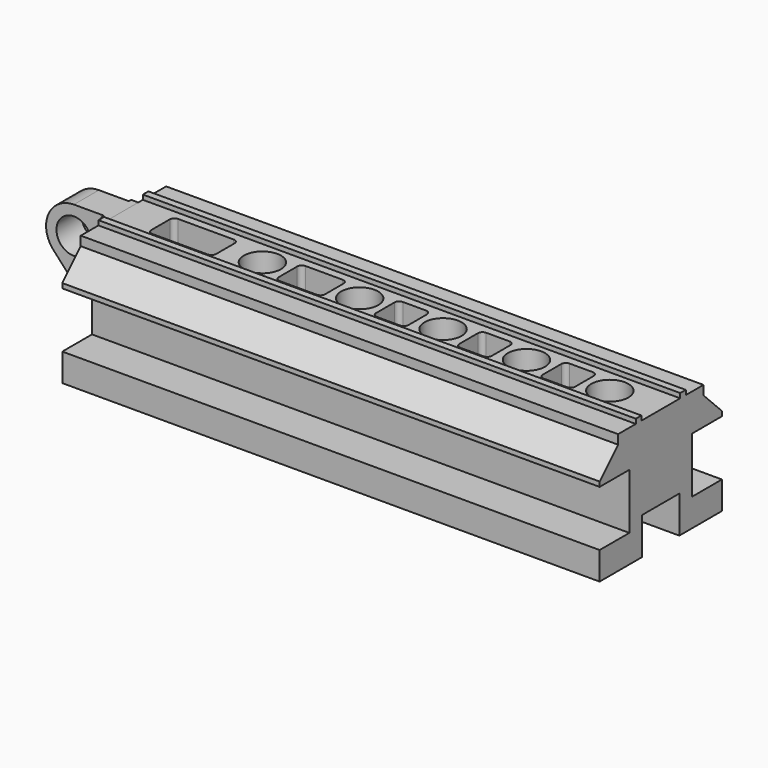
from build123d import *

# Parameters (mm, degrees)
F1_DEPTH  = 368.3
F2_W      = 63.5
F2_H      = 101.6
F3_DEPTH  = 609.6
F5_D      = 50.8
F7_DEPTH  = 165.101
F9_DEPTH  = 736.601
F10_W     = 50.8
F10_H     = 101.6
F11_DEPTH = 88.9
F12_W     = 79.248
F12_H     = 3.9624
F13_DEPTH = 165.101
F14_R     = 23.876
F15_DEPTH = 126.2136
F17_DEPTH = 126.2136


with BuildPart() as f1:
    # F0 (on Right) → F1 (new body, symmetric)
    with BuildSketch(Plane.YZ):
        Polygon((-33.274, 85.725), (-42.799, 85.725), (-42.799, 79.375), (-104.775, 79.375), (-104.775, 28.575), (-53.848, 28.575), (-53.848, -47.625), (-104.775, -47.625), (-104.775, -85.725), (104.775, -85.725), (104.775, -47.625), (53.848, -47.625), (53.848, 28.575), (104.775, 28.575), (104.775, 79.375), (42.799, 79.375), (42.799, 85.725), (33.274, 85.725), (33.274, 79.375), (0, 79.375), (-33.274, 79.375), align=None)
    extrude(amount=F1_DEPTH, both=True)

    # F2 (on face) → F3 (cut)
    with BuildSketch(Plane.YZ.offset(368.3)):
        with Locations((0, -85.725)):
            Rectangle(F2_W, F2_H)
    extrude(amount=-F3_DEPTH, mode=Mode.SUBTRACT)

    # F5 (through all)
    with Locations(Plane.XY.offset(79.375)):
        with Locations((-177.8, 0), (-44.45, 0), (69.85, 0), (184.15, 0), (298.45, 0)):
            Hole(F5_D / 2)

    # F6 (on face) → F7 (cut, through all)
    with BuildSketch(Plane.XY.offset(79.375)):
        with BuildLine():
            Line((257.302, 22.225), (225.552, 22.225))
            ThreePointArc((225.552, 22.225), (221.061872, 20.365128), (219.202, 15.875))
            Line((219.202, 15.875), (219.202, -15.875))
            ThreePointArc((219.202, -15.875), (221.061872, -20.365128), (225.552, -22.225))
            Line((225.552, -22.225), (257.302, -22.225))
            ThreePointArc((257.302, -22.225), (261.792128, -20.365128), (263.652, -15.875))
            Line((263.652, -15.875), (263.652, 15.875))
            ThreePointArc((263.652, 15.875), (261.792128, 20.365128), (257.302, 22.225))
        make_face()
        with BuildLine():
            Line((149.352, -15.875), (149.352, 15.875))
            ThreePointArc((149.352, 15.875), (147.492128, 20.365128), (143.002, 22.225))
            Line((143.002, 22.225), (111.252, 22.225))
            ThreePointArc((111.252, 22.225), (106.761872, 20.365128), (104.902, 15.875))
            Line((104.902, 15.875), (104.902, -15.875))
            ThreePointArc((104.902, -15.875), (106.761872, -20.365128), (111.252, -22.225))
            Line((111.252, -22.225), (143.002, -22.225))
            ThreePointArc((143.002, -22.225), (147.492128, -20.365128), (149.352, -15.875))
        make_face()
        with BuildLine():
            Line((35.052, -15.875), (35.052, 15.875))
            ThreePointArc((35.052, 15.875), (33.192128, 20.365128), (28.702, 22.225))
            Line((28.702, 22.225), (-3.048, 22.225))
            ThreePointArc((-3.048, 22.225), (-7.538128, 20.365128), (-9.398, 15.875))
            Line((-9.398, 15.875), (-9.398, -15.875))
            ThreePointArc((-9.398, -15.875), (-7.538128, -20.365128), (-3.048, -22.225))
            Line((-3.048, -22.225), (28.702, -22.225))
            ThreePointArc((28.702, -22.225), (33.192128, -20.365128), (35.052, -15.875))
        make_face()
        with BuildLine():
            Line((-79.248, -15.875), (-79.248, 15.875))
            ThreePointArc((-79.248, 15.875), (-81.107872, 20.365128), (-85.598, 22.225))
            Line((-85.598, 22.225), (-136.398, 22.225))
            ThreePointArc((-136.398, 22.225), (-140.888128, 20.365128), (-142.748, 15.875))
            Line((-142.748, 15.875), (-142.748, -15.875))
            ThreePointArc((-142.748, -15.875), (-140.888128, -20.365128), (-136.398, -22.225))
            Line((-136.398, -22.225), (-85.598, -22.225))
            ThreePointArc((-85.598, -22.225), (-81.107872, -20.365128), (-79.248, -15.875))
        make_face()
        with BuildLine():
            Line((-228.6, -15.875), (-228.6, 15.875))
            ThreePointArc((-228.6, 15.875), (-230.459872, 20.365128), (-234.95, 22.225))
            Line((-234.95, 22.225), (-311.15, 22.225))
            ThreePointArc((-311.15, 22.225), (-315.640128, 20.365128), (-317.5, 15.875))
            Line((-317.5, 15.875), (-317.5, -15.875))
            ThreePointArc((-317.5, -15.875), (-315.640128, -20.365128), (-311.15, -22.225))
            Line((-311.15, -22.225), (-234.95, -22.225))
            ThreePointArc((-234.95, -22.225), (-230.459872, -20.365128), (-228.6, -15.875))
        make_face()
    extrude(amount=-F7_DEPTH, mode=Mode.SUBTRACT)

    # F8 (on face) → F9 (cut, through all)
    with BuildSketch(Plane.YZ.offset(368.3)):
        Polygon((-119.211055, 20.615945), (-73.152, 66.675), (-73.152, 82.745112), (-119.211055, 82.745112), align=None)
        Polygon((73.152, 82.745112), (73.152, 66.675), (119.211055, 20.615945), (119.211055, 82.745112), align=None)
    extrude(amount=-F9_DEPTH, mode=Mode.SUBTRACT)


with BuildPart() as f11:
    # F10 (on face) → F11 (new body)
    with BuildSketch(Plane(origin=(-368.3, 0, 0), x_dir=(0, -1, 0), z_dir=(-1, 0, 0))):
        with Locations((0, 28.575)):
            Rectangle(F10_W, F10_H)
    extrude(amount=F11_DEPTH)

    # F12 (on face) → F13 (cut, through all)
    with BuildSketch(Plane.XY.offset(79.375)):
        with Locations((-417.576, -23.4188)):
            Rectangle(F12_W, F12_H)
        with Locations((-417.576, 23.4188)):
            Rectangle(F12_W, F12_H)
    extrude(amount=-F13_DEPTH, mode=Mode.SUBTRACT)

    # F14 (on face) → F15 (cut, through all)
    with BuildSketch(Plane(origin=(0, 21.4376, 0), x_dir=(-1, 0, 0), z_dir=(0, 1, 0))):
        with Locations((419.1, 41.275)):
            Circle(F14_R)
    extrude(amount=-F15_DEPTH, mode=Mode.SUBTRACT)

    # F16 (on face) → F17 (cut, through all)
    with BuildSketch(Plane(origin=(0, 21.4376, 0), x_dir=(-1, 0, 0), z_dir=(0, 1, 0))):
        with BuildLine():
            ThreePointArc((419.1, 79.375), (453.955605, 56.659954), (447.249705, 15.60003))
            Line((447.249705, 15.60003), (412.75, -22.225))
            Line((412.75, -22.225), (412.75, -37.565868))
            Line((412.75, -37.565868), (486.452013, -37.565868))
            Line((486.452013, -37.565868), (486.452013, 99.688865))
            Line((486.452013, 99.688865), (419.1, 99.688865))
            Line((419.1, 99.688865), (419.1, 79.375))
        make_face()
    extrude(amount=-F17_DEPTH, mode=Mode.SUBTRACT)


solid = Compound([f1.part, f11.part])
